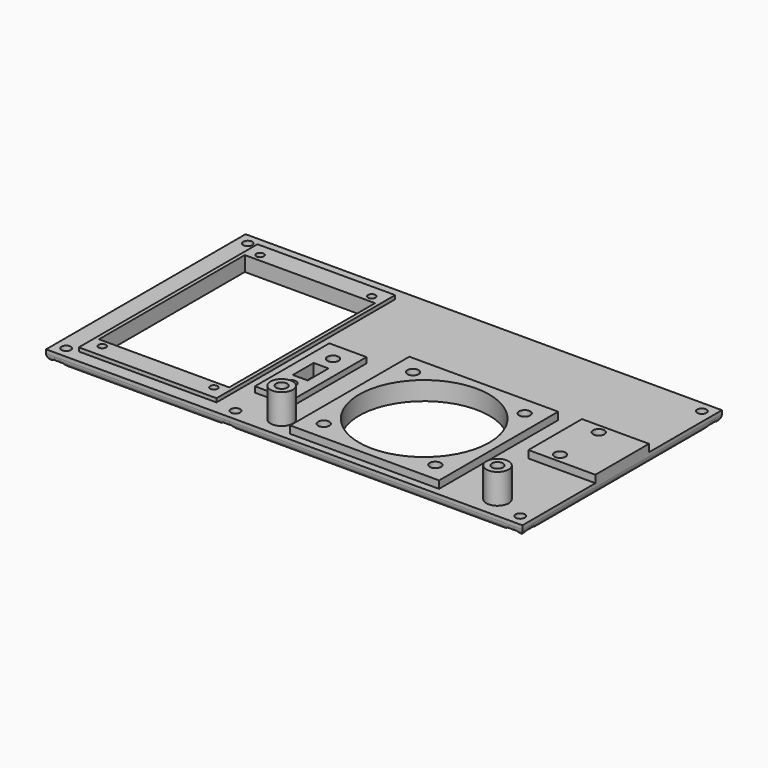
from build123d import *

# Parameters (mm, degrees)
BOX_W             = 128
BOX_H             = 67
BOX_DEPTH         = 3
BOX001_W          = 37
BOX001_H          = 60
BOX001_DEPTH      = 1
BOX002_W          = 35
BOX002_H          = 49
BOX002_DEPTH      = 4
BOX004_W          = 40
BOX004_H          = 40
BOX004_DEPTH      = 3
CYLINDER_R        = 17.5
CYLINDER_DEPTH    = 5
BOX005_W          = 18
BOX005_H          = 18
BOX005_DEPTH      = 2
CYLINDER007_R     = 3
CYLINDER007_DEPTH = 8
CYLINDER008_R     = 1.5
CYLINDER008_DEPTH = 6
CYLINDER009_R     = 3
CYLINDER009_DEPTH = 8
CYLINDER010_R     = 1.5
CYLINDER010_DEPTH = 5
BOX006_W          = 10
BOX006_H          = 25
BOX006_DEPTH      = 1.5
BOX007_W          = 4
BOX007_H          = 7
BOX007_DEPTH      = 6
CYLINDER011_R     = 1.5
CYLINDER011_DEPTH = 2.5
CYLINDER012_R     = 1.5
CYLINDER012_DEPTH = 2.5
CYLINDER013_R     = 1
CYLINDER013_DEPTH = 2
CYLINDER014_R     = 1
CYLINDER014_DEPTH = 2
CYLINDER015_R     = 1
CYLINDER015_DEPTH = 2
CYLINDER016_R     = 1
CYLINDER016_DEPTH = 2
CYLINDER017_R     = 1.25
CYLINDER017_DEPTH = 3
CYLINDER018_R     = 1.25
CYLINDER018_DEPTH = 3
CYLINDER019_R     = 1.25
CYLINDER019_DEPTH = 3
CYLINDER020_R     = 1.25
CYLINDER020_DEPTH = 3
CYLINDER021_R     = 1.5
CYLINDER021_DEPTH = 3
CYLINDER022_R     = 1.5
CYLINDER022_DEPTH = 3
CYLINDER023_R     = 1.5
CYLINDER023_DEPTH = 3
CYLINDER024_R     = 1.5
CYLINDER024_DEPTH = 3
CYLINDER025_R     = 1.5
CYLINDER025_DEPTH = 3
CYLINDER026_R     = 1.5
CYLINDER026_DEPTH = 3
CYLINDER027_R     = 9
CYLINDER027_DEPTH = 8
CYLINDER028_R     = 1.25
CYLINDER028_DEPTH = 3
FILLET_R          = 2
CYLINDER029_R     = 3
CYLINDER029_DEPTH = 1
CYLINDER030_R     = 3
CYLINDER030_DEPTH = 1
CYLINDER031_R     = 3
CYLINDER031_DEPTH = 1
CYLINDER032_R     = 3
CYLINDER032_DEPTH = 1
CYLINDER033_R     = 3
CYLINDER033_DEPTH = 1


with BuildPart() as part:
    # Box → Box (join)
    with BuildSketch(Plane.XY):
        with Locations((64, 33.5)):
            Rectangle(BOX_W, BOX_H)
    extrude(amount=BOX_DEPTH)

    # Box001 → Box001 (join)
    with BuildSketch(Plane(origin=(6, 3.5, 3), x_dir=(1, 0, 0), z_dir=(0, 0, 1))):
        with Locations((18.5, 30)):
            Rectangle(BOX001_W, BOX001_H)
    extrude(amount=BOX001_DEPTH)

    # Box002 → Box002 (cut)
    with BuildSketch(Plane(origin=(7, 9, 0), x_dir=(1, 0, 0), z_dir=(0, 0, 1))):
        with Locations((17.5, 24.5)):
            Rectangle(BOX002_W, BOX002_H)
    extrude(amount=BOX002_DEPTH, mode=Mode.SUBTRACT)

    # Box004 → Box004 (join)
    with BuildSketch(Plane(origin=(64, 2, 2), x_dir=(1, 0, 0), z_dir=(0, 0, 1))):
        with Locations((20, 20)):
            Rectangle(BOX004_W, BOX004_H)
    extrude(amount=BOX004_DEPTH)

    # Cylinder → Cylinder (cut)
    with BuildSketch(Plane(origin=(84, 22, 0), x_dir=(1, 0, 0), z_dir=(0, 0, 1))):
        Circle(CYLINDER_R)
    extrude(amount=CYLINDER_DEPTH, mode=Mode.SUBTRACT)

    # Box005 → Box005 (join)
    with BuildSketch(Plane(origin=(110, 24.5, 3), x_dir=(1, 0, 0), z_dir=(0, 0, 1))):
        with Locations((9, 9)):
            Rectangle(BOX005_W, BOX005_H)
    extrude(amount=BOX005_DEPTH)

    # Cylinder007 → Cylinder007 (join)
    with BuildSketch(Plane(origin=(116.5, 6, 3), x_dir=(1, 0, 0), z_dir=(0, 0, 1))):
        Circle(CYLINDER007_R)
    extrude(amount=CYLINDER007_DEPTH)

    # Cylinder008 → Cylinder008 (cut)
    with BuildSketch(Plane(origin=(116.5, 6, 6), x_dir=(1, 0, 0), z_dir=(0, 0, 1))):
        Circle(CYLINDER008_R)
    extrude(amount=CYLINDER008_DEPTH, mode=Mode.SUBTRACT)

    # Cylinder009 → Cylinder009 (join)
    with BuildSketch(Plane(origin=(58.5, 6, 3), x_dir=(1, 0, 0), z_dir=(0, 0, 1))):
        Circle(CYLINDER009_R)
    extrude(amount=CYLINDER009_DEPTH)

    # Cylinder010 → Cylinder010 (cut)
    with BuildSketch(Plane(origin=(58.5, 6, 6), x_dir=(1, 0, 0), z_dir=(0, 0, 1))):
        Circle(CYLINDER010_R)
    extrude(amount=CYLINDER010_DEPTH, mode=Mode.SUBTRACT)

    # Box006 → Box006 (join)
    with BuildSketch(Plane(origin=(46.5, 12, 3), x_dir=(1, 0, 0), z_dir=(0, 0, 1))):
        with Locations((5, 12.5)):
            Rectangle(BOX006_W, BOX006_H)
    extrude(amount=BOX006_DEPTH)

    # Box007 → Box007 (cut)
    with BuildSketch(Plane(origin=(49.5, 21, -0.5), x_dir=(1, 0, 0), z_dir=(0, 0, 1))):
        with Locations((2, 3.5)):
            Rectangle(BOX007_W, BOX007_H)
    extrude(amount=BOX007_DEPTH, mode=Mode.SUBTRACT)

    # Cylinder011 → Cylinder011 (cut)
    with BuildSketch(Plane(origin=(51.5, 17.75, 2), x_dir=(1, 0, 0), z_dir=(0, 0, 1))):
        Circle(CYLINDER011_R)
    extrude(amount=CYLINDER011_DEPTH, mode=Mode.SUBTRACT)

    # Cylinder012 → Cylinder012 (cut)
    with BuildSketch(Plane(origin=(51.5, 32, 2), x_dir=(1, 0, 0), z_dir=(0, 0, 1))):
        Circle(CYLINDER012_R)
    extrude(amount=CYLINDER012_DEPTH, mode=Mode.SUBTRACT)

    # Cylinder013 → Cylinder013 (cut)
    with BuildSketch(Plane(origin=(9.5, 7, 2), x_dir=(1, 0, 0), z_dir=(0, 0, 1))):
        Circle(CYLINDER013_R)
    extrude(amount=CYLINDER013_DEPTH, mode=Mode.SUBTRACT)

    # Cylinder014 → Cylinder014 (cut)
    with BuildSketch(Plane(origin=(9.5, 60, 2), x_dir=(1, 0, 0), z_dir=(0, 0, 1))):
        Circle(CYLINDER014_R)
    extrude(amount=CYLINDER014_DEPTH, mode=Mode.SUBTRACT)

    # Cylinder015 → Cylinder015 (cut)
    with BuildSketch(Plane(origin=(39.5, 60, 2), x_dir=(1, 0, 0), z_dir=(0, 0, 1))):
        Circle(CYLINDER015_R)
    extrude(amount=CYLINDER015_DEPTH, mode=Mode.SUBTRACT)

    # Cylinder016 → Cylinder016 (cut)
    with BuildSketch(Plane(origin=(39.5, 7, 2), x_dir=(1, 0, 0), z_dir=(0, 0, 1))):
        Circle(CYLINDER016_R)
    extrude(amount=CYLINDER016_DEPTH, mode=Mode.SUBTRACT)

    # Cylinder017 → Cylinder017 (cut)
    with BuildSketch(Plane(origin=(3, 3, 0), x_dir=(1, 0, 0), z_dir=(0, 0, 1))):
        Circle(CYLINDER017_R)
    extrude(amount=CYLINDER017_DEPTH, mode=Mode.SUBTRACT)

    # Cylinder018 → Cylinder018 (cut)
    with BuildSketch(Plane(origin=(3, 64, 0), x_dir=(1, 0, 0), z_dir=(0, 0, 1))):
        Circle(CYLINDER018_R)
    extrude(amount=CYLINDER018_DEPTH, mode=Mode.SUBTRACT)

    # Cylinder019 → Cylinder019 (cut)
    with BuildSketch(Plane(origin=(125, 64, 0), x_dir=(1, 0, 0), z_dir=(0, 0, 1))):
        Circle(CYLINDER019_R)
    extrude(amount=CYLINDER019_DEPTH, mode=Mode.SUBTRACT)

    # Cylinder020 → Cylinder020 (cut)
    with BuildSketch(Plane(origin=(125, 3, 0), x_dir=(1, 0, 0), z_dir=(0, 0, 1))):
        Circle(CYLINDER020_R)
    extrude(amount=CYLINDER020_DEPTH, mode=Mode.SUBTRACT)

    # Cylinder021 → Cylinder021 (cut)
    with BuildSketch(Plane(origin=(69, 7, 2), x_dir=(1, 0, 0), z_dir=(0, 0, 1))):
        Circle(CYLINDER021_R)
    extrude(amount=CYLINDER021_DEPTH, mode=Mode.SUBTRACT)

    # Cylinder022 → Cylinder022 (cut)
    with BuildSketch(Plane(origin=(69, 37, 2), x_dir=(1, 0, 0), z_dir=(0, 0, 1))):
        Circle(CYLINDER022_R)
    extrude(amount=CYLINDER022_DEPTH, mode=Mode.SUBTRACT)

    # Cylinder023 → Cylinder023 (cut)
    with BuildSketch(Plane(origin=(99, 37, 2), x_dir=(1, 0, 0), z_dir=(0, 0, 1))):
        Circle(CYLINDER023_R)
    extrude(amount=CYLINDER023_DEPTH, mode=Mode.SUBTRACT)

    # Cylinder024 → Cylinder024 (cut)
    with BuildSketch(Plane(origin=(99, 7, 2), x_dir=(1, 0, 0), z_dir=(0, 0, 1))):
        Circle(CYLINDER024_R)
    extrude(amount=CYLINDER024_DEPTH, mode=Mode.SUBTRACT)

    # Cylinder025 → Cylinder025 (cut)
    with BuildSketch(Plane(origin=(116.5, 27, 2), x_dir=(1, 0, 0), z_dir=(0, 0, 1))):
        Circle(CYLINDER025_R)
    extrude(amount=CYLINDER025_DEPTH, mode=Mode.SUBTRACT)

    # Cylinder026 → Cylinder026 (cut)
    with BuildSketch(Plane(origin=(116.5, 40, 2), x_dir=(1, 0, 0), z_dir=(0, 0, 1))):
        Circle(CYLINDER026_R)
    extrude(amount=CYLINDER026_DEPTH, mode=Mode.SUBTRACT)

    # Cylinder027 → Cylinder027 (cut)
    with BuildSketch(Plane(origin=(51.5, 20.5, -7.5), x_dir=(1, 0, 0), z_dir=(0, 1, 0))):
        Circle(CYLINDER027_R)
    extrude(amount=CYLINDER027_DEPTH, mode=Mode.SUBTRACT)

    # Cylinder028 → Cylinder028 (cut)
    with BuildSketch(Plane(origin=(48.5, 3, 3), x_dir=(-1, 0, 0), z_dir=(0, 0, -1))):
        Circle(CYLINDER028_R)
    extrude(amount=CYLINDER028_DEPTH, mode=Mode.SUBTRACT)

    # Fillet
    fillet_edges = [part.edges().sort_by_distance(p)[0] for p in [
        (64, 67, 0),
        (128, 33.5, 0),
        (64, 0, 0),
        (0, 33.5, 0),
    ]]
    fillet(fillet_edges, radius=FILLET_R)

    # Cylinder029 → Cylinder029 (cut)
    with BuildSketch(Plane(origin=(48.5, 3, 1), x_dir=(-1, 0, 0), z_dir=(0, 0, -1))):
        Circle(CYLINDER029_R)
    extrude(amount=CYLINDER029_DEPTH, mode=Mode.SUBTRACT)

    # Cylinder030 → Cylinder030 (cut)
    with BuildSketch(Plane(origin=(3, 3, 1), x_dir=(-1, 0, 0), z_dir=(0, 0, -1))):
        Circle(CYLINDER030_R)
    extrude(amount=CYLINDER030_DEPTH, mode=Mode.SUBTRACT)

    # Cylinder031 → Cylinder031 (cut)
    with BuildSketch(Plane(origin=(3, 64, 1), x_dir=(-1, 0, 0), z_dir=(0, 0, -1))):
        Circle(CYLINDER031_R)
    extrude(amount=CYLINDER031_DEPTH, mode=Mode.SUBTRACT)

    # Cylinder032 → Cylinder032 (cut)
    with BuildSketch(Plane(origin=(125, 64, 1), x_dir=(-1, 0, 0), z_dir=(0, 0, -1))):
        Circle(CYLINDER032_R)
    extrude(amount=CYLINDER032_DEPTH, mode=Mode.SUBTRACT)

    # Cylinder033 → Cylinder033 (cut)
    with BuildSketch(Plane(origin=(125, 3, 1), x_dir=(-1, 0, 0), z_dir=(0, 0, -1))):
        Circle(CYLINDER033_R)
    extrude(amount=CYLINDER033_DEPTH, mode=Mode.SUBTRACT)


solid = part.part
